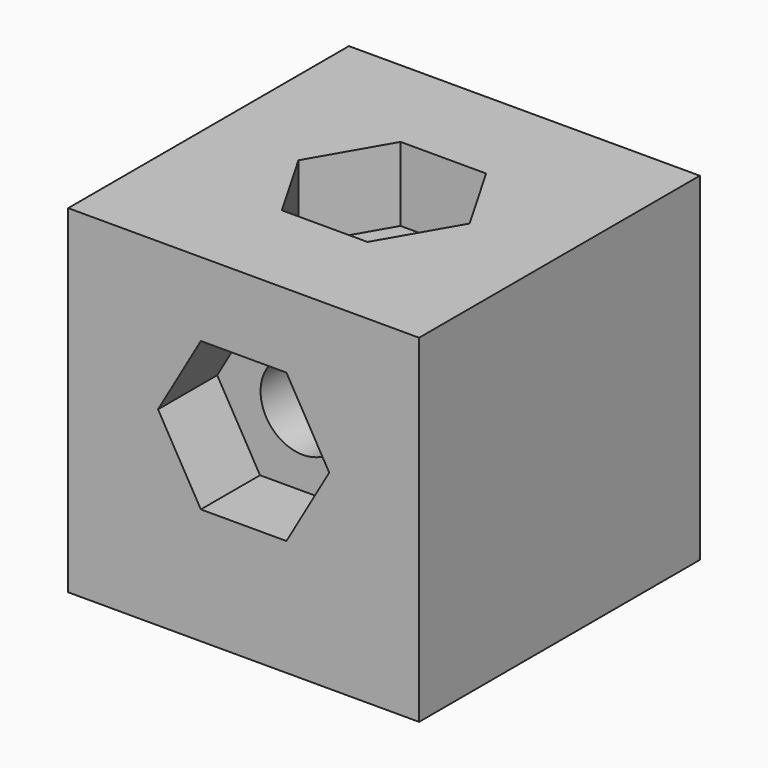
from build123d import *

# Parameters (mm, degrees)
CYLINDER002_R           = 1.5
CYLINDER002_DEPTH       = 6
SKETCH003_W             = 5.5
SKETCH003_H             = 6
PAD003_DEPTH            = 1.2
FUSION_PLACEMENT_ANGLE  = 90
PAD002_DEPTH            = 3.5
BODY002_PLACEMENT_ANGLE = 90
PAD001_DEPTH            = 3.5
CYLINDER_R              = 2
CYLINDER_DEPTH          = 16
CYLINDER001_R           = 2
CYLINDER001_DEPTH       = 5.4
BOX_W                   = 16.6
BOX_H                   = 16.6
BOX_DEPTH               = 16


with BuildPart() as cylinder002:
    # Cylinder002 → Cylinder002 (new body)
    with BuildSketch(Plane(origin=(0, 3, -3), x_dir=(1, 0, 0), z_dir=(0, 0, 1))):
        Circle(CYLINDER002_R)
    extrude(amount=CYLINDER002_DEPTH)


with BuildPart() as fusion:
    # Sketch003 → Pad003 (new body, symmetric)
    with BuildSketch(Plane.XY):
        with Locations((0, 3)):
            Rectangle(SKETCH003_W, SKETCH003_H)
    extrude(amount=PAD003_DEPTH, both=True)

    # Fusion: union Cylinder002
    add(cylinder002.part)


with BuildPart() as fusion_1:
    # Fusion placement: moved
    add(fusion.part.moved(Location((-2.3, 0, 3))).rotate(Axis((-2.3, 0, 3), (0, 0, 1)), FUSION_PLACEMENT_ANGLE))


with BuildPart() as nut_body002:
    # Sketch002 → Pad002 (new body)
    with BuildSketch(Plane.XY):
        Polygon((-4.05, 0), (-2.025, -3.507403), (2.025, -3.507403), (4.05, 0), (2.025, 3.507403), (-2.025, 3.507403), align=None)
    extrude(amount=PAD002_DEPTH)


with BuildPart() as nut_body002_1:
    # Body002 placement: moved
    add(nut_body002.part.moved(Location((0, -4.8, 9))).rotate(Axis((0, -4.8, 9), (1, 0, 0)), BODY002_PLACEMENT_ANGLE))


with BuildPart() as nut_body:
    # Sketch001 → Pad001 (new body)
    with BuildSketch(Plane.XY):
        Polygon((-4.05, 0), (-2.025, -3.507403), (2.025, -3.507403), (4.05, 0), (2.025, 3.507403), (-2.025, 3.507403), align=None)
    extrude(amount=PAD001_DEPTH)


with BuildPart() as nut_body_1:
    # Body001 placement: moved
    add(nut_body.part.moved(Location((0, 0, 12.5))))


with BuildPart() as cylinder:
    # Cylinder → Cylinder (new body)
    with BuildSketch(Plane.XY):
        Circle(CYLINDER_R)
    extrude(amount=CYLINDER_DEPTH)


with BuildPart() as fusion001:
    # Cylinder001 → Cylinder001 (new body)
    with BuildSketch(Plane(origin=(0, -8.3, 9), x_dir=(1, 0, 0), z_dir=(0, 1, 0))):
        Circle(CYLINDER001_R)
    extrude(amount=CYLINDER001_DEPTH)

    # Fusion001: union Fusion, nut_body002, nut_body, Cylinder
    add(fusion_1.part)
    add(nut_body002_1.part)
    add(nut_body_1.part)
    add(cylinder.part)


with BuildPart() as cut:
    # Box → Box (new body)
    with BuildSketch(Plane(origin=(-8.3, -8.3, 0), x_dir=(1, 0, 0), z_dir=(0, 0, 1))):
        with Locations((8.3, 8.3)):
            Rectangle(BOX_W, BOX_H)
    extrude(amount=BOX_DEPTH)

    # Cut: cut Fusion001
    add(fusion001.part, mode=Mode.SUBTRACT)


solid = cut.part
